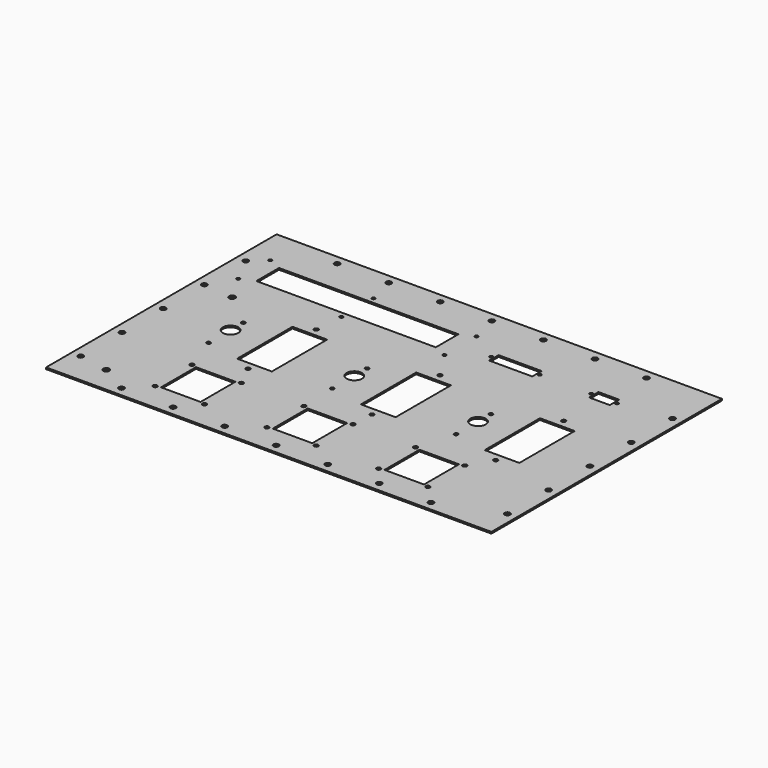
from build123d import *

# Parameters (mm, degrees)
SKETCH_W               = 431.8
SKETCH_H               = 279.4
PAD_DEPTH              = 1.5748
SKETCH002_R            = 1.5875
SKETCH002_W            = 173.95
SKETCH002_H            = 27.45
POCKET_DEPTH           = 1.5758
SKETCH003_R            = 2
SKETCH003_W            = 38.354
SKETCH003_H            = 42.4
POCKET001_DEPTH        = 1.5758
SKETCH004_R            = 2
SKETCH004_R_2          = 7.495
SKETCH004_R_3          = 1.85293
SKETCH004_W            = 33.66
SKETCH004_H            = 67
POCKET002_DEPTH        = 1.5758
SKETCH005_R            = 1.555
SKETCH005_W            = 41.75
SKETCH005_H            = 11.4
POCKET003_DEPTH        = 1.5758
SKETCH006_R            = 1.555
SKETCH006_W            = 20.05
SKETCH006_H            = 11.4
POCKET004_DEPTH        = 1.5758
SKETCH007_R            = 2.61
POCKET005_DEPTH        = 5
LINEARPATTERN_COUNT    = 4
LINEARPATTERN_PITCH    = 50
LINEARPATTERN001_COUNT = 4
LINEARPATTERN001_PITCH = 50
SKETCH008_R            = 2.61
POCKET006_DEPTH        = 1.5758
LINEARPATTERN002_COUNT = 3
LINEARPATTERN002_PITCH = 50
LINEARPATTERN003_COUNT = 3
LINEARPATTERN003_PITCH = 50
SKETCH009_R            = 2.61
POCKET007_DEPTH        = 1.5758
LINEARPATTERN004_COUNT = 4
LINEARPATTERN004_PITCH = 50
LINEARPATTERN005_COUNT = 4
LINEARPATTERN005_PITCH = 50
SKETCH010_R            = 2.61
POCKET008_DEPTH        = 1.5758
LINEARPATTERN006_COUNT = 3
LINEARPATTERN006_PITCH = 50
LINEARPATTERN007_COUNT = 3
LINEARPATTERN007_PITCH = 50
SKETCH011_R            = 2.95
POCKET009_DEPTH        = 1.5758


with BuildPart() as part:
    # Sketch → Pad (new body)
    with BuildSketch(Plane.XY):
        with Locations((0, 139.7)):
            Rectangle(SKETCH_W, SKETCH_H)
    extrude(amount=PAD_DEPTH)

    # Sketch002 → Pocket (cut, through all)
    with BuildSketch(Plane.XY):
        with Locations((-193.025, 243.225)):
            Circle(SKETCH002_R)
        with Locations((6.975, 243.225)):
            Circle(SKETCH002_R)
        with Locations((-193.025, 204.225)):
            Circle(SKETCH002_R)
        with Locations((6.975, 204.225)):
            Circle(SKETCH002_R)
        with Locations((-93.025, 243.225)):
            Circle(SKETCH002_R)
        with Locations((-93.025, 204.225)):
            Circle(SKETCH002_R)
        with Locations((-93.025, 223.725)):
            Rectangle(SKETCH002_W, SKETCH002_H)
    extrude(amount=POCKET_DEPTH, mode=Mode.SUBTRACT)

    # Sketch003 → Pocket001 (cut, through all)
    with BuildSketch(Plane.XY):
        with Locations((-132.229, 72.375)):
            Circle(SKETCH003_R)
        with Locations((-132.229, 27.625)):
            Circle(SKETCH003_R)
        with Locations((-84.479, 27.625)):
            Circle(SKETCH003_R)
        with Locations((-84.479, 72.375)):
            Circle(SKETCH003_R)
        with Locations((-23.875, 72.375)):
            Circle(SKETCH003_R)
        with Locations((23.875, 72.375)):
            Circle(SKETCH003_R)
        with Locations((23.875, 27.625)):
            Circle(SKETCH003_R)
        with Locations((-23.875, 27.625)):
            Circle(SKETCH003_R)
        with Locations((84.479, 72.375)):
            Circle(SKETCH003_R)
        with Locations((132.229, 72.375)):
            Circle(SKETCH003_R)
        with Locations((132.229, 27.625)):
            Circle(SKETCH003_R)
        with Locations((84.479, 27.625)):
            Circle(SKETCH003_R)
        with Locations((-108.354, 50)):
            Rectangle(SKETCH003_W, SKETCH003_H)
        with Locations((0, 50)):
            Rectangle(SKETCH003_W, SKETCH003_H)
        with Locations((108.354, 50)):
            Rectangle(SKETCH003_W, SKETCH003_H)
    extrude(amount=POCKET001_DEPTH, mode=Mode.SUBTRACT)

    # Sketch004 → Pocket002 (cut, through all)
    with BuildSketch(Plane.XY):
        with Locations((-95, 93.75)):
            Circle(SKETCH004_R)
        with Locations((-95, 176.25)):
            Circle(SKETCH004_R)
        with Locations((25, 176.25)):
            Circle(SKETCH004_R)
        with Locations((25, 93.75)):
            Circle(SKETCH004_R)
        with Locations((145, 176.25)):
            Circle(SKETCH004_R)
        with Locations((145, 93.75)):
            Circle(SKETCH004_R)
        with Locations((-145, 135)):
            Circle(SKETCH004_R_2)
        with Locations((-145, 150.48)):
            Circle(SKETCH004_R_3)
        with Locations((-145, 108.32)):
            Circle(SKETCH004_R_3)
        with Locations((-25, 150.48)):
            Circle(SKETCH004_R_3)
        with Locations((-25, 135)):
            Circle(SKETCH004_R_2)
        with Locations((-25, 108.32)):
            Circle(SKETCH004_R_3)
        with Locations((95, 150.48)):
            Circle(SKETCH004_R_3)
        with Locations((95, 135)):
            Circle(SKETCH004_R_2)
        with Locations((95, 108.32)):
            Circle(SKETCH004_R_3)
        with Locations((-95, 135)):
            Rectangle(SKETCH004_W, SKETCH004_H)
        with Locations((25, 135)):
            Rectangle(SKETCH004_W, SKETCH004_H)
        with Locations((145, 135)):
            Rectangle(SKETCH004_W, SKETCH004_H)
    extrude(amount=POCKET002_DEPTH, mode=Mode.SUBTRACT)

    # Sketch005 → Pocket003 (cut, through all)
    with BuildSketch(Plane.XY):
        with Locations((36.55, 224)):
            Circle(SKETCH005_R)
        with Locations((83.45, 224)):
            Circle(SKETCH005_R)
        with Locations((60, 224)):
            Rectangle(SKETCH005_W, SKETCH005_H)
    extrude(amount=POCKET003_DEPTH, mode=Mode.SUBTRACT)

    # Sketch006 → Pocket004 (cut, through all)
    with BuildSketch(Plane.XY):
        with Locations((133.46, 224)):
            Circle(SKETCH006_R)
        with Locations((158.54, 224)):
            Circle(SKETCH006_R)
        with Locations((146, 224)):
            Rectangle(SKETCH006_W, SKETCH006_H)
    extrude(amount=POCKET004_DEPTH, mode=Mode.SUBTRACT)

    # Sketch007 → Pocket005 (cut)
    with BuildSketch(Plane.XY):
        with Locations((0, 9)):
            Circle(SKETCH007_R)
    pocket005 = extrude(amount=POCKET005_DEPTH, mode=Mode.SUBTRACT)

    # LinearPattern: Pocket005 ×4
    with Locations(*[(i * LINEARPATTERN_PITCH, 0, 0) for i in range(1, LINEARPATTERN_COUNT)]):
        add(pocket005, mode=Mode.SUBTRACT)

    # LinearPattern001: Pocket005 ×4
    with Locations(*[(-i * LINEARPATTERN001_PITCH, 0, 0) for i in range(1, LINEARPATTERN001_COUNT)]):
        add(pocket005, mode=Mode.SUBTRACT)

    # Sketch008 → Pocket006 (cut, through all)
    with BuildSketch(Plane.XY):
        with Locations((-206.9, 130.7)):
            Circle(SKETCH008_R)
    pocket006 = extrude(amount=POCKET006_DEPTH, mode=Mode.SUBTRACT)

    # LinearPattern002: Pocket006 ×3
    with Locations(*[(0, -i * LINEARPATTERN002_PITCH, 0) for i in range(1, LINEARPATTERN002_COUNT)]):
        add(pocket006, mode=Mode.SUBTRACT)

    # LinearPattern003: Pocket006 ×3
    with Locations(*[(0, i * LINEARPATTERN003_PITCH, 0) for i in range(1, LINEARPATTERN003_COUNT)]):
        add(pocket006, mode=Mode.SUBTRACT)

    # Sketch009 → Pocket007 (cut, through all)
    with BuildSketch(Plane.XY):
        with Locations((0, 270.4)):
            Circle(SKETCH009_R)
    pocket007 = extrude(amount=POCKET007_DEPTH, mode=Mode.SUBTRACT)

    # LinearPattern004: Pocket007 ×4
    with Locations(*[(i * LINEARPATTERN004_PITCH, 0, 0) for i in range(1, LINEARPATTERN004_COUNT)]):
        add(pocket007, mode=Mode.SUBTRACT)

    # LinearPattern005: Pocket007 ×4
    with Locations(*[(-i * LINEARPATTERN005_PITCH, 0, 0) for i in range(1, LINEARPATTERN005_COUNT)]):
        add(pocket007, mode=Mode.SUBTRACT)

    # Sketch010 → Pocket008 (cut, through all)
    with BuildSketch(Plane.XY):
        with Locations((206.9, 130.7)):
            Circle(SKETCH010_R)
    pocket008 = extrude(amount=POCKET008_DEPTH, mode=Mode.SUBTRACT)

    # LinearPattern006: Pocket008 ×3
    with Locations(*[(0, i * LINEARPATTERN006_PITCH, 0) for i in range(1, LINEARPATTERN006_COUNT)]):
        add(pocket008, mode=Mode.SUBTRACT)

    # LinearPattern007: Pocket008 ×3
    with Locations(*[(0, -i * LINEARPATTERN007_PITCH, 0) for i in range(1, LINEARPATTERN007_COUNT)]):
        add(pocket008, mode=Mode.SUBTRACT)

    # Sketch011 → Pocket009 (cut, through all)
    with BuildSketch(Plane.XY):
        with Locations((-177.8, 177.8)):
            Circle(SKETCH011_R)
        with Locations((-177.8, 25.4)):
            Circle(SKETCH011_R)
    extrude(amount=POCKET009_DEPTH, mode=Mode.SUBTRACT)


with BuildPart() as part_1:
    # Body placement: moved
    add(part.part.moved(Location((-80, -87, -100))))


solid = part_1.part
